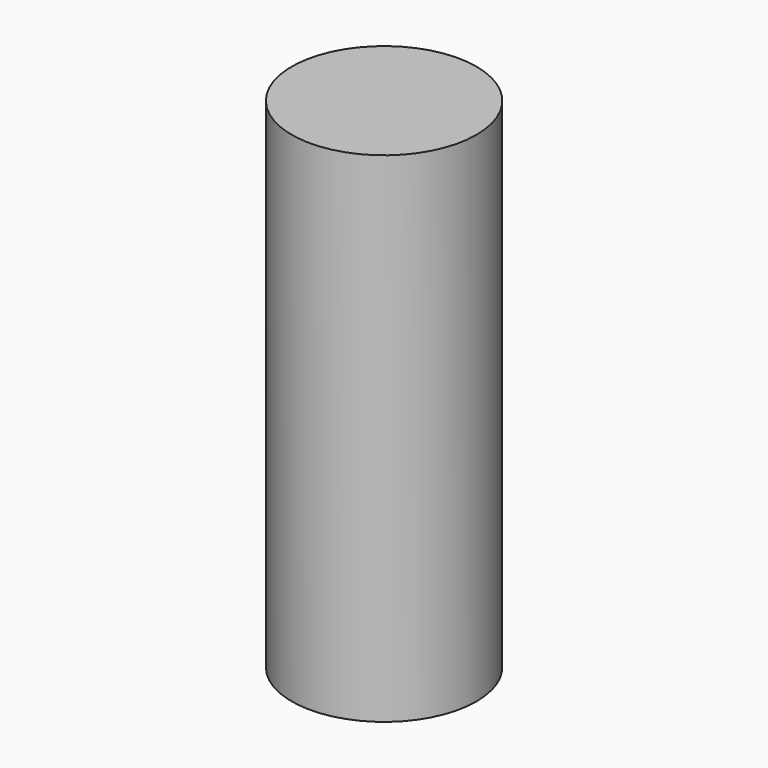
from build123d import *

# Parameters (mm, degrees)
SKETCH_R  = 15
PAD_DEPTH = 81


with BuildPart() as part:
    # Sketch → Pad (new body)
    with BuildSketch(Plane.XY):
        Circle(SKETCH_R)
    extrude(amount=PAD_DEPTH)


solid = part.part
